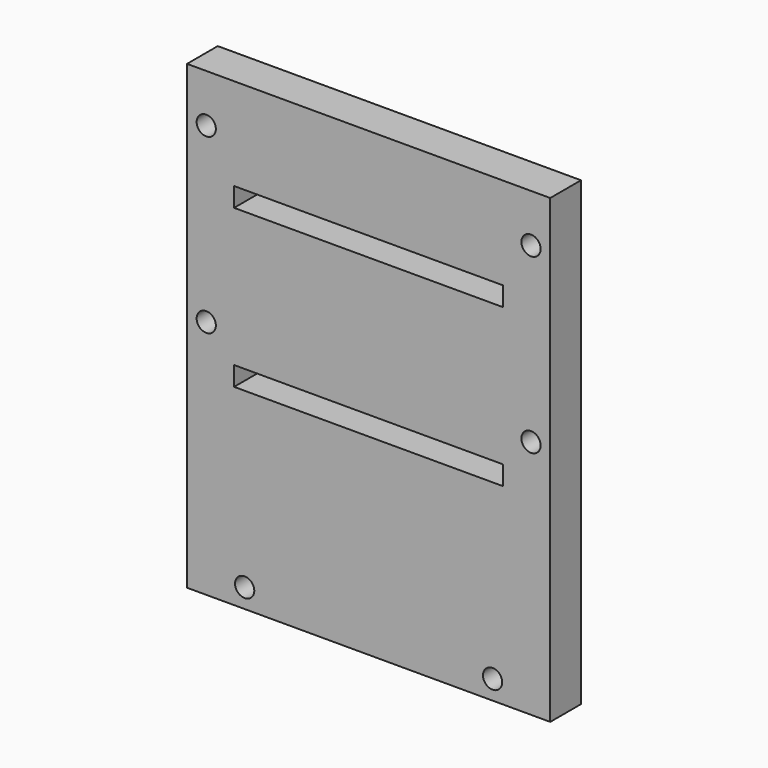
from build123d import *

# Parameters (mm, degrees)
F0_W     = 120.015
F0_H     = 152.4
F0_R     = 3.175
F0_W_2   = 88.9
F0_H_2   = 6.35
F1_DEPTH = 12.7


with BuildPart() as f1:
    # F0 (on Front) → F1 (new body)
    with BuildSketch(Plane.XZ):
        with Locations((-60.0075, 76.2)):
            Rectangle(F0_W, F0_H)
        with Locations((-100.965, 6.35)):
            Circle(F0_R, mode=Mode.SUBTRACT)
        with Locations((-19.05, 6.35)):
            Circle(F0_R, mode=Mode.SUBTRACT)
        with Locations((-60.0075, 66.675)):
            Rectangle(F0_W_2, F0_H_2, mode=Mode.SUBTRACT)
        with Locations((-113.665, 79.375)):
            Circle(F0_R, mode=Mode.SUBTRACT)
        with Locations((-113.665, 136.525)):
            Circle(F0_R, mode=Mode.SUBTRACT)
        with Locations((-6.35, 79.375)):
            Circle(F0_R, mode=Mode.SUBTRACT)
        with Locations((-60.0075, 118.745)):
            Rectangle(F0_W_2, F0_H_2, mode=Mode.SUBTRACT)
        with Locations((-6.35, 136.525)):
            Circle(F0_R, mode=Mode.SUBTRACT)
    extrude(amount=F1_DEPTH)


solid = f1.part
